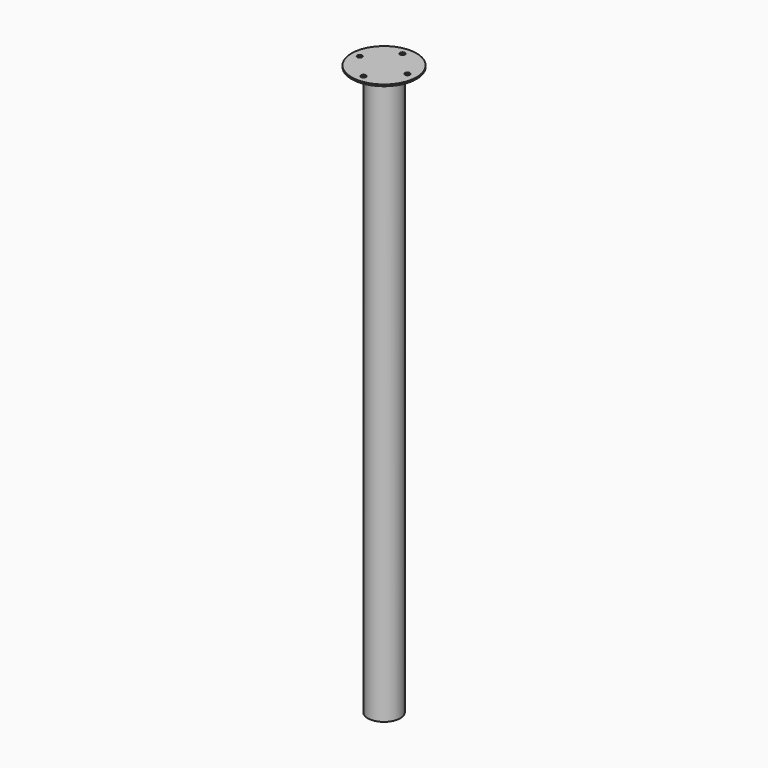
from build123d import *

# Parameters (mm, degrees)
F0_R     = 20
F1_DEPTH = 700
F2_R     = 40
F2_R_2   = 3
F3_DEPTH = 2


with BuildPart() as f1:
    # F0 (on Top) → F1 (new body)
    with BuildSketch(Plane.XY):
        Circle(F0_R)
    extrude(amount=-F1_DEPTH)

    # F2 (on Top) → F3 (join)
    with BuildSketch(Plane.XY):
        Circle(F2_R)
        with Locations((-1.2432069331, -30)):
            Circle(F2_R_2, mode=Mode.SUBTRACT)
        with Locations((-30, 0)):
            Circle(F2_R_2, mode=Mode.SUBTRACT)
        with Locations((-1.2432069331, 30)):
            Circle(F2_R_2, mode=Mode.SUBTRACT)
        with Locations((28.7567930669, 0)):
            Circle(F2_R_2, mode=Mode.SUBTRACT)
    extrude(amount=F3_DEPTH)


solid = f1.part
